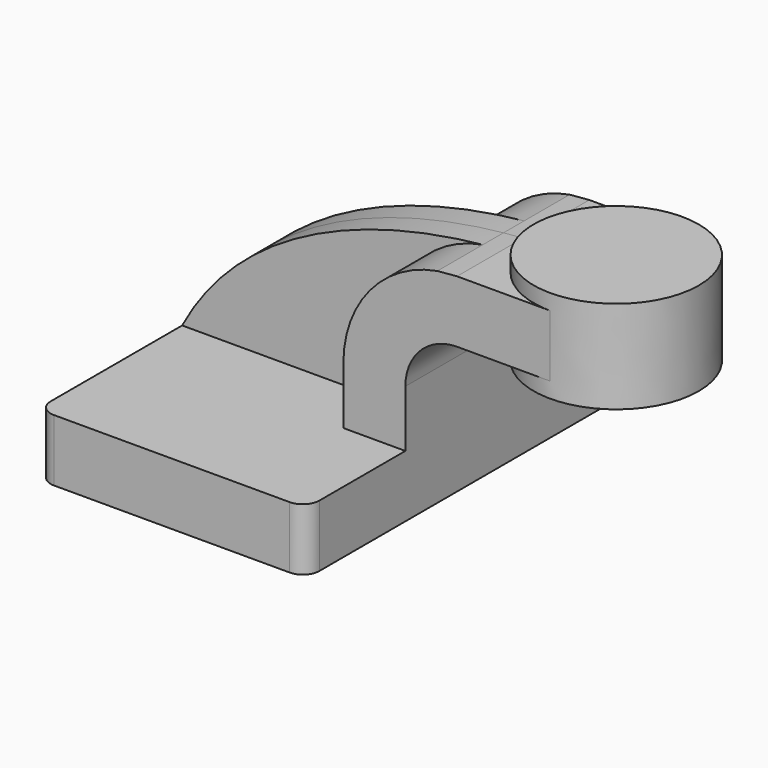
from build123d import *

# Parameters (mm, degrees)
F1_DEPTH = 63.5
F2_DEPTH = 25.4
F3_DEPTH = 7.9375
F5_DEPTH = 12.7
F6_R     = 5.08


with BuildPart() as f1:
    # F0 (on Front) → F1 (new body, symmetric)
    with BuildSketch(Plane.XZ):
        Polygon((-41.275, -9.525), (41.275, -9.525), (41.275, 9.525), (22.225, 9.525), (-41.275, 9.525), align=None)
    extrude(amount=F1_DEPTH, both=True)

    # F0 (on Front) → F2 (join, symmetric)
    with BuildSketch(Plane.XZ):
        with BuildLine():
            Line((22.225, 9.525), (41.275, 9.525))
            Line((41.275, 9.525), (41.275, 27.0002))
            ThreePointArc((41.275, 27.0002), (45.9246798487, 38.2255201513), (57.15, 42.8752))
            Line((57.15, 42.8752), (60.325, 42.8752))
            Line((60.325, 42.8752), (60.325, 61.9252))
            Line((60.325, 61.9252), (57.15, 61.9252))
            add(Edge.make_bspline(
                [(51.1085881946, 61.398702415), (53.7307154629, 61.6641570912), (55.7925510504, 61.8177418079), (57.15, 61.9252)],
                knots=[0.7544555653, 0.7544555653, 0.7544555653, 0.7544555653, 0.8556201459, 0.8556201459, 0.8556201459, 0.8556201459], degree=3))
            ThreePointArc((51.1085881946, 61.398702415), (30.4034868412, 49.4585984034), (22.225, 27.0002))
            Line((22.225, 27.0002), (22.225, 9.525))
        make_face()
        Polygon((60.325, 61.9252), (60.325, 42.8752), (85.729400427, 42.8752), (85.7469553221, 61.9252), align=None)
    extrude(amount=F2_DEPTH, both=True)

    # F0 (on Front) → F3 (join, symmetric)
    with BuildSketch(Plane.XZ):
        with BuildLine():
            add(Edge.make_bspline(
                [(-41.275, 9.525), (-19.1634568795, 51.2174255763), (31.5535374202, 59.4190198373), (51.1085881946, 61.398702415)],
                knots=[0, 0, 0, 0, 0.7544555653, 0.7544555653, 0.7544555653, 0.7544555653], degree=3))
            Line((-41.275, 9.525), (22.225, 9.525))
            Line((22.225, 9.525), (22.225, 27.0002))
            ThreePointArc((22.225, 27.0002), (30.4034868412, 49.4585984034), (51.1085881946, 61.398702415))
        make_face()
    extrude(amount=F3_DEPTH, both=True)

    # F0 (on Front) → F4 (revolve)
    with BuildSketch(Plane.XZ):
        Polygon((85.7469553221, 61.9252), (85.729400427, 42.8752), (85.725, 38.1), (111.125, 38.1), (111.125, 66.675), (85.7513323426, 66.675), align=None)
    revolve(axis=Axis((85.7381661713, 0, 52.3875), (0.0009215164, 0, 0.9999995754)))

    # F0 (on Front) → F5 (join, symmetric)
    with BuildSketch(Plane.XZ):
        with BuildLine():
            Line((22.225, 9.525), (41.275, 9.525))
            Line((41.275, 9.525), (41.275, 27.0002))
            ThreePointArc((41.275, 27.0002), (45.9246798487, 38.2255201513), (57.15, 42.8752))
            Line((57.15, 42.8752), (60.325, 42.8752))
            Line((60.325, 42.8752), (60.325, 61.9252))
            Line((60.325, 61.9252), (57.15, 61.9252))
            add(Edge.make_bspline(
                [(51.1085881946, 61.398702415), (53.7307154629, 61.6641570912), (55.7925510504, 61.8177418079), (57.15, 61.9252)],
                knots=[0.7544555653, 0.7544555653, 0.7544555653, 0.7544555653, 0.8556201459, 0.8556201459, 0.8556201459, 0.8556201459], degree=3))
            ThreePointArc((51.1085881946, 61.398702415), (30.4034868412, 49.4585984034), (22.225, 27.0002))
            Line((22.225, 27.0002), (22.225, 9.525))
        make_face()
    extrude(amount=F5_DEPTH, both=True)

    # F6
    f6_edges = [f1.edges().sort_by_distance(p)[0] for p in [
        (41.275, -63.5, 0),
        (-41.275, -63.5, 0),
        (41.275, 63.5, 0),
        (-41.275, 63.5, 0),
    ]]
    fillet(f6_edges, radius=F6_R)


solid = f1.part
